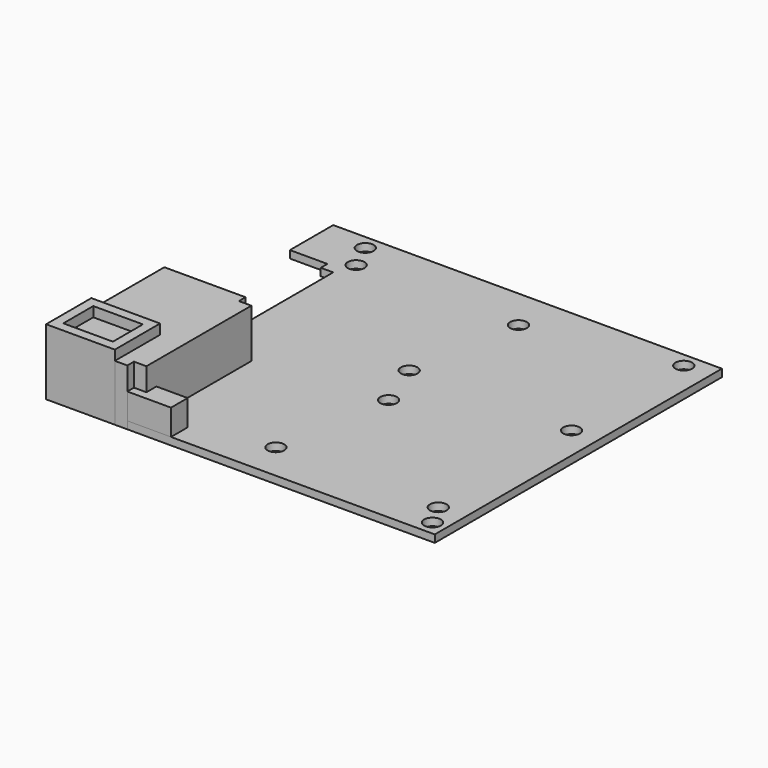
from build123d import *

# Parameters (mm, degrees)
F1_DEPTH = 1.6
F2_W     = 30
F2_H     = 5
F3_DEPTH = 8
F4_R     = 2
F5_DEPTH = 1.8
F7_DEPTH = 13.5
F8_W     = 16.51
F8_H     = 13.59
F8_W_2   = 11.9099998979
F8_H_2   = 8.9899998979
F9_DEPTH = 15.88


with BuildPart() as f1:
    # F0 (on Top) → F1 (new body)
    with BuildSketch(Plane.XY):
        with BuildLine():
            Line((0, 31.1500756876), (0, 0))
            Line((0, 0), (37, 0))
            Line((37, 0), (37, 3.1504611653))
            Line((37, 3.1504611653), (35.6352836186, 3.1504611653))
            ThreePointArc((35.6352836186, 3.1504611653), (35.6, 3.15), (35.5647163814, 3.1504611653))
            ThreePointArc((35.5647163814, 3.1504611653), (34.250048561, 4.5114504264), (35.5876136644, 5.8499431761))
            ThreePointArc((35.5876136644, 5.8499431761), (35.6, 5.85), (35.6123863356, 5.8499431761))
            Line((35.6123863356, 5.8499431761), (37, 5.8499431761))
            Line((37, 5.8499431761), (37, 37))
            Line((37, 37), (0, 37))
            Line((0, 37), (0, 33.8499615507))
            Line((0, 33.8499615507), (1.3898111945, 33.8499615507))
            ThreePointArc((1.3898111945, 33.8499615507), (2.7499984386, 32.4979467523), (1.385704868, 31.1500756876))
            Line((1.385704868, 31.1500756876), (0, 31.1500756876))
        make_face()
    extrude(amount=F1_DEPTH)


with BuildPart() as f3:
    # F2 (on Top) → F3 (new body)
    with BuildSketch(Plane.XY):
        with Locations((15, 2.5)):
            Rectangle(F2_W, F2_H)
    extrude(amount=F3_DEPTH)


with BuildPart() as f5:
    # F4 (on Top) → F5 (new body)
    with BuildSketch(Plane.XY):
        Polygon((0, 38.5), (0, 0), (93.35, 0), (93.35, 86.2), (0, 86.2), (0, 73.2), (9, 73.2), (9, 71.2), (12, 71.2), (12, 40.5), (9, 40.5), (9, 38.5), align=None)
        with Locations((10.5, 3.5)):
            Circle(F4_R, mode=Mode.SUBTRACT)
        with BuildLine():
            ThreePointArc((12, 38.5228756555), (14.2071067812, 39.0708286934), (15.5, 37.2))
            ThreePointArc((15.5, 37.2), (12.8070847204, 35.3238687638), (11.9801315846, 38.5))
            ThreePointArc((11.9801315846, 38.5), (11.9900224719, 38.5114754533), (12, 38.5228756555))
        make_face(mode=Mode.SUBTRACT)
        with Locations((48, 9)):
            Circle(F4_R, mode=Mode.SUBTRACT)
        with Locations((90, 3.5)):
            Circle(F4_R, mode=Mode.SUBTRACT)
        with Locations((87, 9)):
            Circle(F4_R, mode=Mode.SUBTRACT)
        with Locations((52.5, 37.2)):
            Circle(F4_R, mode=Mode.SUBTRACT)
        with Locations((10.5, 82.7)):
            Circle(F4_R, mode=Mode.SUBTRACT)
        with Locations((13.5, 76.2)):
            Circle(F4_R, mode=Mode.SUBTRACT)
        with Locations((48, 49)):
            Circle(F4_R, mode=Mode.SUBTRACT)
        with Locations((87, 49)):
            Circle(F4_R, mode=Mode.SUBTRACT)
        with Locations((52.5, 76.2)):
            Circle(F4_R, mode=Mode.SUBTRACT)
        with Locations((87, 82.7)):
            Circle(F4_R, mode=Mode.SUBTRACT)
    extrude(amount=F5_DEPTH)


with BuildPart() as f7:
    # F6 (on Top) → F7 (new body)
    with BuildSketch(Plane.XY):
        Polygon((0, 35.5), (0, 0), (19.5, 0), (19.5, 2), (22.5, 2), (22.5, 33.5), (19.5, 33.5), (19.5, 35.5), align=None)
    extrude(amount=F7_DEPTH)


with BuildPart() as f9:
    # F8 (on Top) → F9 (new body)
    with BuildSketch(Plane.XY):
        with Locations((8.255, 6.795)):
            Rectangle(F8_W, F8_H)
        with Locations((8.255, 6.795)):
            Rectangle(F8_W_2, F8_H_2, mode=Mode.SUBTRACT)
    extrude(amount=F9_DEPTH)


solid = Compound([f1.part, f3.part, f5.part, f7.part, f9.part])
